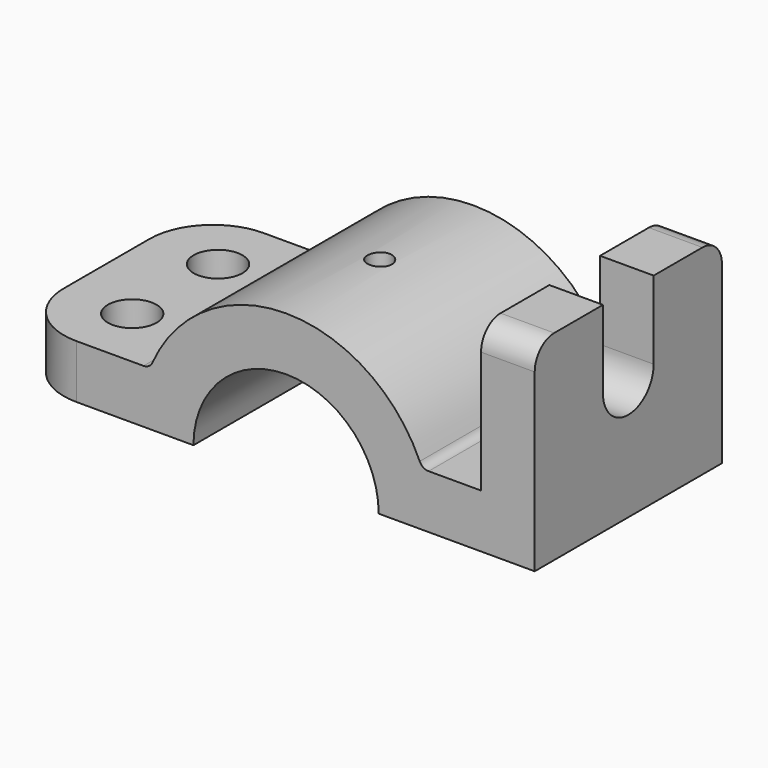
from build123d import *

# Parameters (mm, degrees)
F0_W     = 110
F0_H     = 300
F1_DEPTH = 240
F3_DEPTH = 110
F4_R     = 50
F4_R_2   = 25
F5_DEPTH = 410.001
F6_R     = 130
F7_R     = 50
F8_R     = 20


with BuildPart() as f1:
    # F0 (on Front) → F1 (new body, symmetric)
    with BuildSketch(Plane.XZ):
        with BuildLine():
            Line((154.9193338483, 110), (279.1057147391, 110))
            ThreePointArc((279.1057147391, 110), (0, 300), (-279.1057147391, 110))
            Line((-279.1057147391, 110), (-154.9193338483, 110))
            ThreePointArc((-154.9193338483, 110), (0, 190), (154.9193338483, 110))
        make_face()
        with BuildLine():
            Line((190, 0), (300, 0))
            ThreePointArc((300, 0), (294.7301430306, 55.9834153044), (279.1057147391, 110))
            Line((279.1057147391, 110), (154.9193338483, 110))
            ThreePointArc((154.9193338483, 110), (181.0175038928, 57.7292238334), (190, 0))
        make_face()
        with BuildLine():
            Line((-560, 0), (-300, 0))
            ThreePointArc((-300, 0), (-294.7301430306, 55.9834153044), (-279.1057147391, 110))
            Line((-279.1057147391, 110), (-560, 110))
            Line((-560, 110), (-560, 0))
        make_face()
        with BuildLine():
            ThreePointArc((-279.1057147391, 110), (-294.7301430306, 55.9834153044), (-300, 0))
            Line((-300, 0), (-190, 0))
            ThreePointArc((-190, 0), (-181.0175038928, 57.7292238334), (-154.9193338483, 110))
            Line((-154.9193338483, 110), (-279.1057147391, 110))
        make_face()
        with BuildLine():
            ThreePointArc((279.1057147391, 110), (294.7301430306, 55.9834153044), (300, 0))
            Line((300, 0), (510, 0))
            Line((510, 0), (510, 110))
            Line((510, 110), (400, 110))
            Line((400, 110), (279.1057147391, 110))
        make_face()
        with Locations((455, 260)):
            Rectangle(F0_W, F0_H)
    extrude(amount=F1_DEPTH, both=True)

    # F2 (on face) → F3 (cut, through all)
    with BuildSketch(Plane.YZ.offset(510)):
        with BuildLine():
            ThreePointArc((-65, 250), (0, 185), (65, 250))
            ThreePointArc((65, 250), (0, 315), (-65, 250))
        make_face()
        with BuildLine():
            ThreePointArc((-65, 250), (0, 315), (65, 250))
            Line((65, 250), (65, 410))
            Line((65, 410), (-65, 410))
            Line((-65, 410), (-65, 250))
        make_face()
    extrude(amount=-F3_DEPTH, mode=Mode.SUBTRACT)

    # F4 (on Top) → F5 (cut, through all)
    with BuildSketch(Plane.XY):
        with Locations((-419.5528573695, 110)):
            Circle(F4_R)
        with Locations((-419.5528573695, -110)):
            Circle(F4_R)
        Circle(F4_R_2)
    extrude(amount=F5_DEPTH, mode=Mode.SUBTRACT)

    # F6
    f6_edges = [f1.edges().sort_by_distance(p)[0] for p in [
        (-560, 240, 55),
        (-560, -240, 55),
    ]]
    fillet(f6_edges, radius=F6_R)

    # F7
    f7_edges = [f1.edges().sort_by_distance(p)[0] for p in [
        (455, 240, 410),
        (455, -240, 410),
    ]]
    fillet(f7_edges, radius=F7_R)

    # F8
    f8_edges = [f1.edges().sort_by_distance(p)[0] for p in [
        (-279.105715, 0, 110),
        (279.105715, 0, 110),
    ]]
    fillet(f8_edges, radius=F8_R)


solid = f1.part
